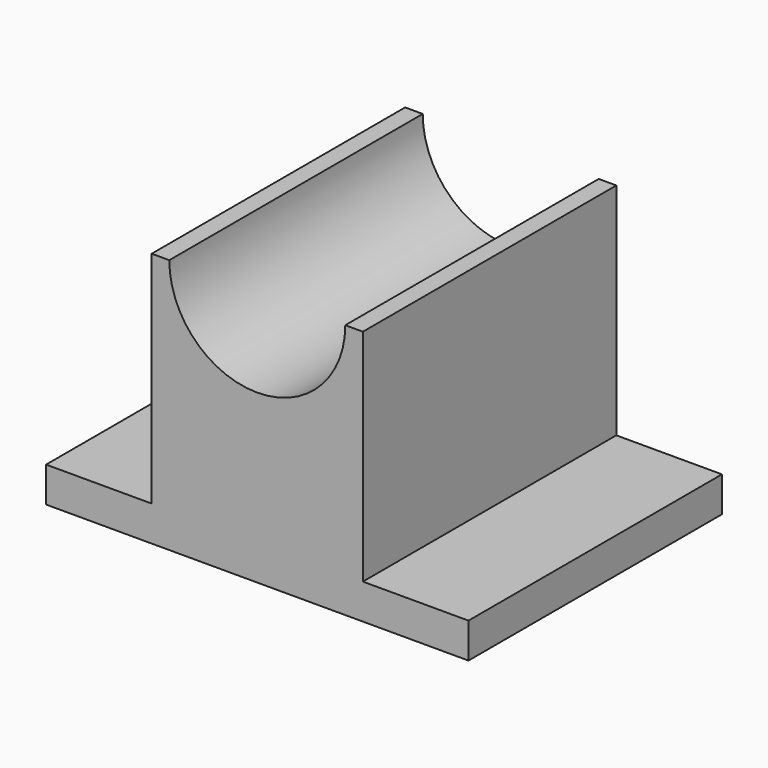
from build123d import *

# Parameters (mm, degrees)
F0_W     = 152.4
F0_H     = 114.3
F1_DEPTH = 12.7
F2_W     = 76.2
F2_H     = 114.3
F3_DEPTH = 79.375
F5_DEPTH = 127


with BuildPart() as f1:
    # F0 (on Top) → F1 (new body)
    with BuildSketch(Plane.XY):
        with Locations((76.2, 57.15)):
            Rectangle(F0_W, F0_H)
    extrude(amount=F1_DEPTH)

    # F2 (on face) → F3 (join)
    with BuildSketch(Plane.XY.offset(12.7)):
        with Locations((76.2, 57.15)):
            Rectangle(F2_W, F2_H)
    extrude(amount=F3_DEPTH)

    # F4 (on face) → F5 (cut)
    with BuildSketch(Plane.XZ):
        with BuildLine():
            ThreePointArc((44.45, 92.075), (76.2, 60.325), (107.95, 92.075))
            Line((107.95, 92.075), (44.45, 92.075))
        make_face()
    extrude(amount=-F5_DEPTH, mode=Mode.SUBTRACT)


solid = f1.part
